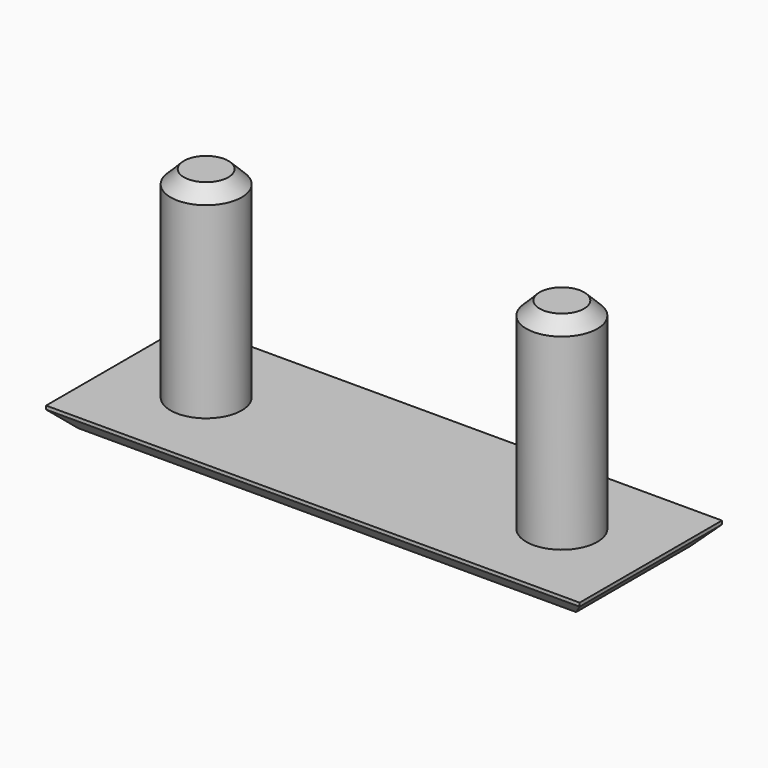
from build123d import *

# Parameters (mm, degrees)
F0_W     = 60
F0_H     = 20
F0_R     = 4
F1_DEPTH = 2.4
F2_DEPTH = 25
F3_SIZE  = 2
F4_SIZE  = 1.5


with BuildPart() as f1:
    # F0 (on Top) → F1 (new body)
    with BuildSketch(Plane.XY):
        Rectangle(F0_W, F0_H)
        with Locations((-20, 0)):
            Circle(F0_R, mode=Mode.SUBTRACT)
        with BuildLine():
            ThreePointArc((24, 0), (20, -4), (16, 0))
            ThreePointArc((16, 0), (20, 4), (24, 0))
        make_face(mode=Mode.SUBTRACT)
        with Locations((-20, 0)):
            Circle(F0_R)
        with BuildLine():
            ThreePointArc((24, 0), (20, 4), (16, 0))
            ThreePointArc((16, 0), (20, -4), (24, 0))
        make_face()
    extrude(amount=F1_DEPTH)

    # F0 (on Top) → F2 (join)
    with BuildSketch(Plane.XY):
        with Locations((-20, 0)):
            Circle(F0_R)
        with BuildLine():
            ThreePointArc((24, 0), (20, 4), (16, 0))
            ThreePointArc((16, 0), (20, -4), (24, 0))
        make_face()
    extrude(amount=F2_DEPTH)

    # F3
    f3_edges = [f1.edges().sort_by_distance(p)[0] for p in [
        (0, -10, 0),
        (30, 0, 0),
        (0, 10, 0),
        (-30, 0, 0),
    ]]
    chamfer(f3_edges, length=F3_SIZE)

    # F4
    f4_edges = [f1.edges().sort_by_distance(p)[0] for p in [
        (-24, 0, 25),
        (24, 0, 25),
    ]]
    chamfer(f4_edges, length=F4_SIZE)


solid = f1.part
